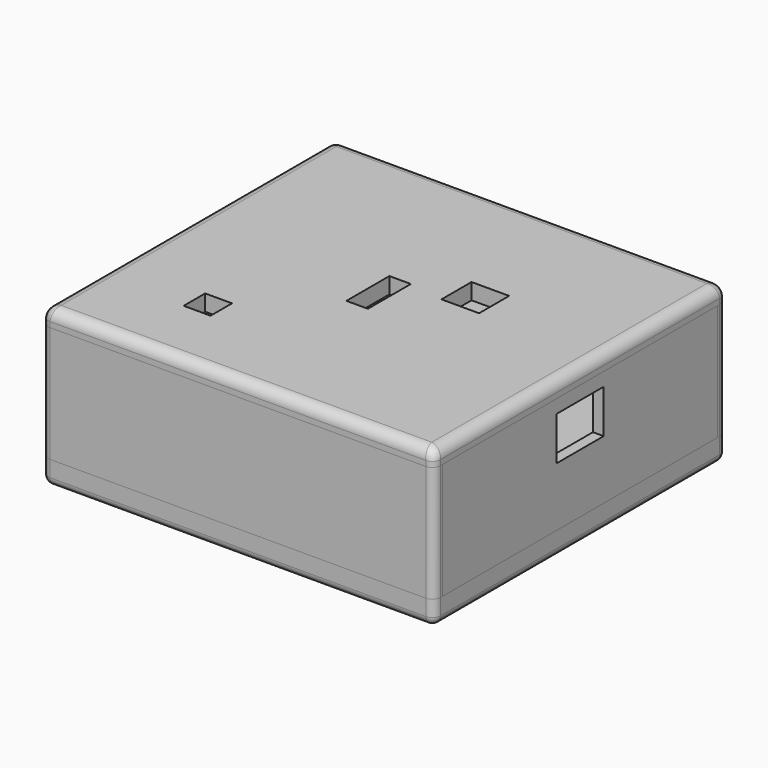
from build123d import *

# Parameters (mm, degrees)
BOX004_W          = 73
BOX004_H          = 2
BOX004_DEPTH      = 21.6
FILLET_R          = 1.5
BOX003_W          = 73
BOX003_H          = 2
BOX003_DEPTH      = 21.6
FILLET003_R       = 1.5
BOX007_W          = 2
BOX007_H          = 26.5
BOX007_DEPTH      = 15.6
BOX008_W          = 2
BOX008_H          = 11
BOX008_DEPTH      = 5
BOX009_W          = 2
BOX009_H          = 11
BOX009_DEPTH      = 2.5
BOX018_W          = 2
BOX018_H          = 64
BOX018_DEPTH      = 6
BOX006_W          = 2
BOX006_H          = 26.5
BOX006_DEPTH      = 15.6
BOX011_W          = 2
BOX011_H          = 24
BOX011_DEPTH      = 14.1
BOX017_W          = 2
BOX017_H          = 64
BOX017_DEPTH      = 6
BOX012_W          = 2
BOX012_H          = 15
BOX012_DEPTH      = 6.6
BOX010_W          = 2
BOX010_H          = 25
BOX010_DEPTH      = 14.1
BOX013_W          = 2
BOX013_H          = 64
BOX013_DEPTH      = 1.5
BOX019_W          = 4
BOX019_H          = 64
BOX019_DEPTH      = 6
BOX020_W          = 4
BOX020_H          = 10.5
BOX020_DEPTH      = 6
BOX032_W          = 4
BOX032_H          = 10.5
BOX032_DEPTH      = 6
BOX033_W          = 4
BOX033_H          = 33
BOX033_DEPTH      = 6
CYLINDER011_R     = 2
CYLINDER011_DEPTH = 5
CYLINDER_R        = 2
CYLINDER_DEPTH    = 5
CYLINDER003_R     = 2
CYLINDER003_DEPTH = 5
CYLINDER010_R     = 2
CYLINDER010_DEPTH = 5
CYLINDER004_R     = 4
CYLINDER004_DEPTH = 3
CYLINDER005_R     = 4
CYLINDER005_DEPTH = 3
CYLINDER006_R     = 4
CYLINDER006_DEPTH = 3
CYLINDER007_R     = 4
CYLINDER007_DEPTH = 3
BOX002_W          = 10
BOX002_H          = 8
BOX002_DEPTH      = 2
BOX_W             = 64
BOX_H             = 64
BOX_DEPTH         = 2
BOX001_W          = 5
BOX001_H          = 64
BOX001_DEPTH      = 2
CYLINDER013_R     = 2
CYLINDER013_DEPTH = 10
CYLINDER014_R     = 2
CYLINDER014_DEPTH = 10
CYLINDER015_R     = 2
CYLINDER015_DEPTH = 10
CYLINDER012_R     = 2
CYLINDER012_DEPTH = 10
CYLINDER016_R     = 4
CYLINDER016_DEPTH = 3
CYLINDER017_R     = 4
CYLINDER017_DEPTH = 3
CYLINDER018_R     = 4
CYLINDER018_DEPTH = 3
CYLINDER019_R     = 4
CYLINDER019_DEPTH = 3
BOX023_W          = 73
BOX023_H          = 68
BOX023_DEPTH      = 4.5
FILLET006_R       = 1.5
FILLET007_R       = 1.5
BOX036_W          = 5
BOX036_H          = 5
BOX036_DEPTH      = 4
BOX037_W          = 7
BOX037_H          = 7
BOX037_DEPTH      = 4
BOX035_W          = 4
BOX035_H          = 10
BOX035_DEPTH      = 4
BOX034_W          = 73
BOX034_H          = 68
BOX034_DEPTH      = 3
FILLET008_R       = 1.5
FILLET009_R       = 2
BOX043_W          = 59
BOX043_H          = 5
BOX043_DEPTH      = 3
BOX046_W          = 7
BOX046_H          = 19
BOX046_DEPTH      = 1.5
BOX047_W          = 7
BOX047_H          = 18
BOX047_DEPTH      = 3
BOX042_W          = 59
BOX042_H          = 5
BOX042_DEPTH      = 3
BOX040_W          = 7
BOX040_H          = 20
BOX040_DEPTH      = 3
BOX044_W          = 7
BOX044_H          = 14
BOX044_DEPTH      = 2
BOX045_W          = 7
BOX045_H          = 20
BOX045_DEPTH      = 3
BOX038_W          = 7
BOX038_H          = 17
BOX038_DEPTH      = 3


with BuildPart() as fillet_body:
    # Box004 → Box004 (new body)
    with BuildSketch(Plane(origin=(-7, 64, -6), x_dir=(1, 0, 0), z_dir=(0, 0, 1))):
        with Locations((36.5, 1)):
            Rectangle(BOX004_W, BOX004_H)
    extrude(amount=BOX004_DEPTH)

    # Fillet
    fillet_edges = [fillet_body.edges().sort_by_distance(p)[0] for p in [
        (-7, 66, 4.8),
        (66, 66, 4.8),
    ]]
    fillet(fillet_edges, radius=FILLET_R)


with BuildPart() as fillet003:
    # Box003 → Box003 (new body)
    with BuildSketch(Plane(origin=(-7, -2, -6), x_dir=(1, 0, 0), z_dir=(0, 0, 1))):
        with Locations((36.5, 1)):
            Rectangle(BOX003_W, BOX003_H)
    extrude(amount=BOX003_DEPTH)

    # Fillet003
    fillet003_edges = [fillet003.edges().sort_by_distance(p)[0] for p in [
        (-7, -2, 4.8),
        (66, -2, 4.8),
    ]]
    fillet(fillet003_edges, radius=FILLET003_R)


with BuildPart() as cube007:
    # Box007 → Box007 (new body)
    with BuildSketch(Plane(origin=(64, 37.5, 0), x_dir=(1, 0, 0), z_dir=(0, 0, 1))):
        with Locations((1, 13.25)):
            Rectangle(BOX007_W, BOX007_H)
    extrude(amount=BOX007_DEPTH)


with BuildPart() as cube008:
    # Box008 → Box008 (new body)
    with BuildSketch(Plane(origin=(64, 26.5, 0), x_dir=(1, 0, 0), z_dir=(0, 0, 1))):
        with Locations((1, 5.5)):
            Rectangle(BOX008_W, BOX008_H)
    extrude(amount=BOX008_DEPTH)


with BuildPart() as cube009:
    # Box009 → Box009 (new body)
    with BuildSketch(Plane(origin=(64, 26.5, 13.1), x_dir=(1, 0, 0), z_dir=(0, 0, 1))):
        with Locations((1, 5.5)):
            Rectangle(BOX009_W, BOX009_H)
    extrude(amount=BOX009_DEPTH)


with BuildPart() as cube018:
    # Box018 → Box018 (new body)
    with BuildSketch(Plane(origin=(64, 0, -6), x_dir=(1, 0, 0), z_dir=(0, 0, 1))):
        with Locations((1, 32)):
            Rectangle(BOX018_W, BOX018_H)
    extrude(amount=BOX018_DEPTH)


with BuildPart() as fusion007:
    # Box006 → Box006 (new body)
    with BuildSketch(Plane(origin=(64, 0, 0), x_dir=(1, 0, 0), z_dir=(0, 0, 1))):
        with Locations((1, 13.25)):
            Rectangle(BOX006_W, BOX006_H)
    extrude(amount=BOX006_DEPTH)

    # Fusion007: union Cube007, Cube008, Cube009, Cube018
    add(cube007.part)
    add(cube008.part)
    add(cube009.part)
    add(cube018.part)


with BuildPart() as cube011:
    # Box011 → Box011 (new body)
    with BuildSketch(Plane(origin=(-7, 0, 0), x_dir=(1, 0, 0), z_dir=(0, 0, 1))):
        with Locations((1, 12)):
            Rectangle(BOX011_W, BOX011_H)
    extrude(amount=BOX011_DEPTH)


with BuildPart() as cube017:
    # Box017 → Box017 (new body)
    with BuildSketch(Plane(origin=(-7, 0, -6), x_dir=(1, 0, 0), z_dir=(0, 0, 1))):
        with Locations((1, 32)):
            Rectangle(BOX017_W, BOX017_H)
    extrude(amount=BOX017_DEPTH)


with BuildPart() as cube012:
    # Box012 → Box012 (new body)
    with BuildSketch(Plane(origin=(-7, 24, 0), x_dir=(1, 0, 0), z_dir=(0, 0, 1))):
        with Locations((1, 7.5)):
            Rectangle(BOX012_W, BOX012_H)
    extrude(amount=BOX012_DEPTH)


with BuildPart() as cube010:
    # Box010 → Box010 (new body)
    with BuildSketch(Plane(origin=(-7, 39, 0), x_dir=(1, 0, 0), z_dir=(0, 0, 1))):
        with Locations((1, 12.5)):
            Rectangle(BOX010_W, BOX010_H)
    extrude(amount=BOX010_DEPTH)


with BuildPart() as fusion:
    # Box013 → Box013 (new body)
    with BuildSketch(Plane(origin=(-7, 0, 14.1), x_dir=(1, 0, 0), z_dir=(0, 0, 1))):
        with Locations((1, 32)):
            Rectangle(BOX013_W, BOX013_H)
    extrude(amount=BOX013_DEPTH)

    # Fusion: union Cube011, Cube017, Cube012, Cube010
    add(cube011.part)
    add(cube017.part)
    add(cube012.part)
    add(cube010.part)


with BuildPart() as cube019:
    # Box019 → Box019 (new body)
    with BuildSketch(Plane(origin=(-5, 0, -6), x_dir=(1, 0, 0), z_dir=(0, 0, 1))):
        with Locations((2, 32)):
            Rectangle(BOX019_W, BOX019_H)
    extrude(amount=BOX019_DEPTH)


with BuildPart() as cube020:
    # Box020 → Box020 (new body)
    with BuildSketch(Plane(origin=(60, 0, -6), x_dir=(1, 0, 0), z_dir=(0, 0, 1))):
        with Locations((2, 5.25)):
            Rectangle(BOX020_W, BOX020_H)
    extrude(amount=BOX020_DEPTH)


with BuildPart() as cube032:
    # Box032 → Box032 (new body)
    with BuildSketch(Plane(origin=(60, 53.5, -6), x_dir=(1, 0, 0), z_dir=(0, 0, 1))):
        with Locations((2, 5.25)):
            Rectangle(BOX032_W, BOX032_H)
    extrude(amount=BOX032_DEPTH)


with BuildPart() as cube033:
    # Box033 → Box033 (new body)
    with BuildSketch(Plane(origin=(60, 15.5, -6), x_dir=(1, 0, 0), z_dir=(0, 0, 1))):
        with Locations((2, 16.5)):
            Rectangle(BOX033_W, BOX033_H)
    extrude(amount=BOX033_DEPTH)


with BuildPart() as cylinder011:
    # Cylinder011 → Cylinder011 (new body)
    with BuildSketch(Plane(origin=(59.5, 13, 0), x_dir=(1, 0, 0), z_dir=(0, 0, 1))):
        Circle(CYLINDER011_R)
    extrude(amount=CYLINDER011_DEPTH)


with BuildPart() as cylinder:
    # Cylinder → Cylinder (new body)
    with BuildSketch(Plane(origin=(4, 13, 0), x_dir=(1, 0, 0), z_dir=(0, 0, 1))):
        Circle(CYLINDER_R)
    extrude(amount=CYLINDER_DEPTH)


with BuildPart() as cylinder003:
    # Cylinder003 → Cylinder003 (new body)
    with BuildSketch(Plane(origin=(4, 51, 0), x_dir=(1, 0, 0), z_dir=(0, 0, 1))):
        Circle(CYLINDER003_R)
    extrude(amount=CYLINDER003_DEPTH)


with BuildPart() as cylinder010:
    # Cylinder010 → Cylinder010 (new body)
    with BuildSketch(Plane(origin=(59.5, 51, 0), x_dir=(1, 0, 0), z_dir=(0, 0, 1))):
        Circle(CYLINDER010_R)
    extrude(amount=CYLINDER010_DEPTH)


with BuildPart() as cylinder004:
    # Cylinder004 → Cylinder004 (new body)
    with BuildSketch(Plane(origin=(4, 13, 2), x_dir=(1, 0, 0), z_dir=(0, 0, 1))):
        Circle(CYLINDER004_R)
    extrude(amount=CYLINDER004_DEPTH)


with BuildPart() as cylinder005:
    # Cylinder005 → Cylinder005 (new body)
    with BuildSketch(Plane(origin=(59.5, 13, 2), x_dir=(1, 0, 0), z_dir=(0, 0, 1))):
        Circle(CYLINDER005_R)
    extrude(amount=CYLINDER005_DEPTH)


with BuildPart() as cylinder006:
    # Cylinder006 → Cylinder006 (new body)
    with BuildSketch(Plane(origin=(4, 51, 2), x_dir=(1, 0, 0), z_dir=(0, 0, 1))):
        Circle(CYLINDER006_R)
    extrude(amount=CYLINDER006_DEPTH)


with BuildPart() as cylinder007:
    # Cylinder007 → Cylinder007 (new body)
    with BuildSketch(Plane(origin=(59.5, 51, 2), x_dir=(1, 0, 0), z_dir=(0, 0, 1))):
        Circle(CYLINDER007_R)
    extrude(amount=CYLINDER007_DEPTH)


with BuildPart() as cube002:
    # Box002 → Box002 (new body)
    with BuildSketch(Plane(origin=(27, 0, 0), x_dir=(1, 0, 0), z_dir=(0, 0, 1))):
        with Locations((5, 4)):
            Rectangle(BOX002_W, BOX002_H)
    extrude(amount=BOX002_DEPTH)


with BuildPart() as cut:
    # Box → Box (new body)
    with BuildSketch(Plane.XY):
        with Locations((32, 32)):
            Rectangle(BOX_W, BOX_H)
    extrude(amount=BOX_DEPTH)

    # Cut: cut Cube002
    add(cube002.part, mode=Mode.SUBTRACT)


with BuildPart() as fusion008:
    # Box001 → Box001 (new body)
    with BuildSketch(Plane(origin=(-5, 0, 0), x_dir=(1, 0, 0), z_dir=(0, 0, 1))):
        with Locations((2.5, 32)):
            Rectangle(BOX001_W, BOX001_H)
    extrude(amount=BOX001_DEPTH)

    # Fusion001: union Cut
    add(cut.part)

    # Fusion002: union Cylinder004, Cylinder005, Cylinder006, Cylinder007
    add(cylinder004.part)
    add(cylinder005.part)
    add(cylinder006.part)
    add(cylinder007.part)

    # Cut001: cut Cylinder010
    add(cylinder010.part, mode=Mode.SUBTRACT)

    # Cut002: cut Cylinder003
    add(cylinder003.part, mode=Mode.SUBTRACT)

    # Cut003: cut Cylinder
    add(cylinder.part, mode=Mode.SUBTRACT)

    # Cut004: cut Cylinder011
    add(cylinder011.part, mode=Mode.SUBTRACT)

    # Fusion008: union Cube019, Cube020, Cube032, Cube033
    add(cube019.part)
    add(cube020.part)
    add(cube032.part)
    add(cube033.part)


with BuildPart() as cylinder013:
    # Cylinder013 → Cylinder013 (new body)
    with BuildSketch(Plane(origin=(59.5, 51, -10.5), x_dir=(1, 0, 0), z_dir=(0, 0, 1))):
        Circle(CYLINDER013_R)
    extrude(amount=CYLINDER013_DEPTH)


with BuildPart() as cylinder014:
    # Cylinder014 → Cylinder014 (new body)
    with BuildSketch(Plane(origin=(59.5, 13, -10.5), x_dir=(1, 0, 0), z_dir=(0, 0, 1))):
        Circle(CYLINDER014_R)
    extrude(amount=CYLINDER014_DEPTH)


with BuildPart() as cylinder015:
    # Cylinder015 → Cylinder015 (new body)
    with BuildSketch(Plane(origin=(4, 51, -10.5), x_dir=(1, 0, 0), z_dir=(0, 0, 1))):
        Circle(CYLINDER015_R)
    extrude(amount=CYLINDER015_DEPTH)


with BuildPart() as cylinder012:
    # Cylinder012 → Cylinder012 (new body)
    with BuildSketch(Plane(origin=(4, 13, -10.5), x_dir=(1, 0, 0), z_dir=(0, 0, 1))):
        Circle(CYLINDER012_R)
    extrude(amount=CYLINDER012_DEPTH)


with BuildPart() as cylinder016:
    # Cylinder016 → Cylinder016 (new body)
    with BuildSketch(Plane(origin=(4, 13, -10.5), x_dir=(1, 0, 0), z_dir=(0, 0, 1))):
        Circle(CYLINDER016_R)
    extrude(amount=CYLINDER016_DEPTH)


with BuildPart() as cylinder017:
    # Cylinder017 → Cylinder017 (new body)
    with BuildSketch(Plane(origin=(59.5, 51, -10.5), x_dir=(1, 0, 0), z_dir=(0, 0, 1))):
        Circle(CYLINDER017_R)
    extrude(amount=CYLINDER017_DEPTH)


with BuildPart() as cylinder018:
    # Cylinder018 → Cylinder018 (new body)
    with BuildSketch(Plane(origin=(59.5, 13, -10.5), x_dir=(1, 0, 0), z_dir=(0, 0, 1))):
        Circle(CYLINDER018_R)
    extrude(amount=CYLINDER018_DEPTH)


with BuildPart() as cylinder019:
    # Cylinder019 → Cylinder019 (new body)
    with BuildSketch(Plane(origin=(4, 51, -10.5), x_dir=(1, 0, 0), z_dir=(0, 0, 1))):
        Circle(CYLINDER019_R)
    extrude(amount=CYLINDER019_DEPTH)


with BuildPart() as fillet007:
    # Box023 → Box023 (new body)
    with BuildSketch(Plane(origin=(-7, -2, -10.5), x_dir=(1, 0, 0), z_dir=(0, 0, 1))):
        with Locations((36.5, 34)):
            Rectangle(BOX023_W, BOX023_H)
    extrude(amount=BOX023_DEPTH)

    # Cut014: cut Cylinder019
    add(cylinder019.part, mode=Mode.SUBTRACT)

    # Cut015: cut Cylinder018
    add(cylinder018.part, mode=Mode.SUBTRACT)

    # Cut016: cut Cylinder017
    add(cylinder017.part, mode=Mode.SUBTRACT)

    # Cut017: cut Cylinder016
    add(cylinder016.part, mode=Mode.SUBTRACT)

    # Cut018: cut Cylinder012
    add(cylinder012.part, mode=Mode.SUBTRACT)

    # Cut019: cut Cylinder015
    add(cylinder015.part, mode=Mode.SUBTRACT)

    # Cut020: cut Cylinder014
    add(cylinder014.part, mode=Mode.SUBTRACT)

    # Cut021: cut Cylinder013
    add(cylinder013.part, mode=Mode.SUBTRACT)

    # Fillet006
    fillet006_edges = [fillet007.edges().sort_by_distance(p)[0] for p in [
        (-7, -2, -8.25),
        (-7, 66, -8.25),
        (66, -2, -8.25),
        (66, 66, -8.25),
    ]]
    fillet(fillet006_edges, radius=FILLET006_R)

    # Fillet007
    fillet007_edges = [fillet007.edges().sort_by_distance(p)[0] for p in [
        (-7, 32, -10.5),
        (-6.56066, -1.56066, -10.5),
        (-6.56066, 65.56066, -10.5),
        (29.5, -2, -10.5),
        (29.5, 66, -10.5),
        (65.56066, -1.56066, -10.5),
        (65.56066, 65.56066, -10.5),
        (66, 32, -10.5),
    ]]
    fillet(fillet007_edges, radius=FILLET007_R)


with BuildPart() as cube036:
    # Box036 → Box036 (new body)
    with BuildSketch(Plane(origin=(9, 11, 15), x_dir=(1, 0, 0), z_dir=(0, 0, 1))):
        with Locations((2.5, 2.5)):
            Rectangle(BOX036_W, BOX036_H)
    extrude(amount=BOX036_DEPTH)


with BuildPart() as cube037:
    # Box037 → Box037 (new body)
    with BuildSketch(Plane(origin=(37, 36, 15), x_dir=(1, 0, 0), z_dir=(0, 0, 1))):
        with Locations((3.5, 3.5)):
            Rectangle(BOX037_W, BOX037_H)
    extrude(amount=BOX037_DEPTH)


with BuildPart() as cube035:
    # Box035 → Box035 (new body)
    with BuildSketch(Plane(origin=(26.5, 27, 15), x_dir=(1, 0, 0), z_dir=(0, 0, 1))):
        with Locations((2, 5)):
            Rectangle(BOX035_W, BOX035_H)
    extrude(amount=BOX035_DEPTH)


with BuildPart() as cut024:
    # Box034 → Box034 (new body)
    with BuildSketch(Plane(origin=(-7, -2, 15.6), x_dir=(1, 0, 0), z_dir=(0, 0, 1))):
        with Locations((36.5, 34)):
            Rectangle(BOX034_W, BOX034_H)
    extrude(amount=BOX034_DEPTH)

    # Fillet008
    fillet008_edges = [cut024.edges().sort_by_distance(p)[0] for p in [
        (-7, -2, 17.1),
        (-7, 66, 17.1),
        (66, -2, 17.1),
        (66, 66, 17.1),
    ]]
    fillet(fillet008_edges, radius=FILLET008_R)

    # Fillet009
    fillet009_edges = [cut024.edges().sort_by_distance(p)[0] for p in [
        (-7, 32, 18.6),
        (-6.56066, -1.56066, 18.6),
        (-6.56066, 65.56066, 18.6),
        (29.5, -2, 18.6),
        (29.5, 66, 18.6),
        (65.56066, -1.56066, 18.6),
        (65.56066, 65.56066, 18.6),
        (66, 32, 18.6),
    ]]
    fillet(fillet009_edges, radius=FILLET009_R)

    # Cut022: cut Cube035
    add(cube035.part, mode=Mode.SUBTRACT)

    # Cut023: cut Cube037
    add(cube037.part, mode=Mode.SUBTRACT)

    # Cut024: cut Cube036
    add(cube036.part, mode=Mode.SUBTRACT)


with BuildPart() as cube043:
    # Box043 → Box043 (new body)
    with BuildSketch(Plane.XY.offset(12.6)):
        with Locations((29.5, 2.5)):
            Rectangle(BOX043_W, BOX043_H)
    extrude(amount=BOX043_DEPTH)


with BuildPart() as cube046:
    # Box046 → Box046 (new body)
    with BuildSketch(Plane(origin=(-5, 22, 14.1), x_dir=(1, 0, 0), z_dir=(0, 0, 1))):
        with Locations((3.5, 9.5)):
            Rectangle(BOX046_W, BOX046_H)
    extrude(amount=BOX046_DEPTH)


with BuildPart() as cube047:
    # Box047 → Box047 (new body)
    with BuildSketch(Plane(origin=(-5, 41, 12.6), x_dir=(1, 0, 0), z_dir=(0, 0, 1))):
        with Locations((3.5, 9)):
            Rectangle(BOX047_W, BOX047_H)
    extrude(amount=BOX047_DEPTH)


with BuildPart() as cube042:
    # Box042 → Box042 (new body)
    with BuildSketch(Plane(origin=(0, 59, 12.6), x_dir=(1, 0, 0), z_dir=(0, 0, 1))):
        with Locations((29.5, 2.5)):
            Rectangle(BOX042_W, BOX042_H)
    extrude(amount=BOX042_DEPTH)


with BuildPart() as cube040:
    # Box040 → Box040 (new body)
    with BuildSketch(Plane(origin=(57, 5, 12.6), x_dir=(1, 0, 0), z_dir=(0, 0, 1))):
        with Locations((3.5, 10)):
            Rectangle(BOX040_W, BOX040_H)
    extrude(amount=BOX040_DEPTH)


with BuildPart() as cube044:
    # Box044 → Box044 (new body)
    with BuildSketch(Plane(origin=(57, 25, 13.6), x_dir=(1, 0, 0), z_dir=(0, 0, 1))):
        with Locations((3.5, 7)):
            Rectangle(BOX044_W, BOX044_H)
    extrude(amount=BOX044_DEPTH)


with BuildPart() as cube045:
    # Box045 → Box045 (new body)
    with BuildSketch(Plane(origin=(57, 39, 12.6), x_dir=(1, 0, 0), z_dir=(0, 0, 1))):
        with Locations((3.5, 10)):
            Rectangle(BOX045_W, BOX045_H)
    extrude(amount=BOX045_DEPTH)


with BuildPart() as fusion009:
    # Box038 → Box038 (new body)
    with BuildSketch(Plane(origin=(-5, 5, 12.6), x_dir=(1, 0, 0), z_dir=(0, 0, 1))):
        with Locations((3.5, 8.5)):
            Rectangle(BOX038_W, BOX038_H)
    extrude(amount=BOX038_DEPTH)

    # Fusion009: union Cube043, Cube046, Cube047, Cube042, Cube040, Cube044, Cube045
    add(cube043.part)
    add(cube046.part)
    add(cube047.part)
    add(cube042.part)
    add(cube040.part)
    add(cube044.part)
    add(cube045.part)


solid = Compound([fillet_body.part, fillet003.part, fusion007.part, fusion.part, fusion008.part, fillet007.part, cut024.part, fusion009.part])
